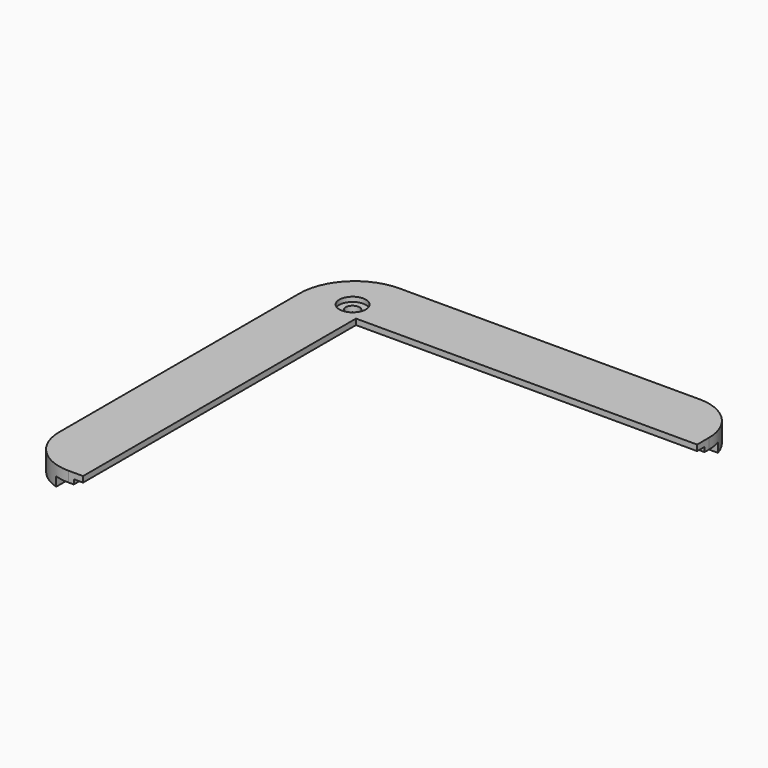
from build123d import *

# Parameters (mm, degrees)
F3_R           = 10
F4_R           = 12
F6_D           = 3
F6_CBORE_D     = 5.75
F6_CBORE_DEPTH = 1


with BuildPart() as f2:
    # F2: sweep along a path in F1
    with BuildLine(Plane.XY) as f2_path:
        Line((-6.2, 0), (-6.2, 80))
        Line((-6.2, 80), (73.8, 80))
    # F0 (on Front) → F2 (sweep)
    with BuildSketch(Plane.XZ):
        Polygon((-6.2, -3), (-6.2, -1), (-2, -1), (-2, 0), (0, 0), (0, 1.25), (-13.2, 1.25), (-13.2, -3), align=None)
    sweep(path=f2_path.line, transition=Transition.RIGHT)

    # F3
    f3_edges = [f2.edges().sort_by_distance(p)[0] for p in [
        (-13.2, 0, -0.875),
        (73.8, 87, -0.875),
    ]]
    fillet(f3_edges, radius=F3_R)

    # F4
    f4_edges = [f2.edges().sort_by_distance(p)[0] for p in [
        (-13.2, 87, -0.875),
    ]]
    fillet(f4_edges, radius=F4_R)

    # F6 (through all)
    with Locations(Plane.XY.offset(1.25)):
        with Locations((-3.65, 77.45)):
            CounterBoreHole(F6_D / 2, F6_CBORE_D / 2, F6_CBORE_DEPTH)


solid = f2.part
